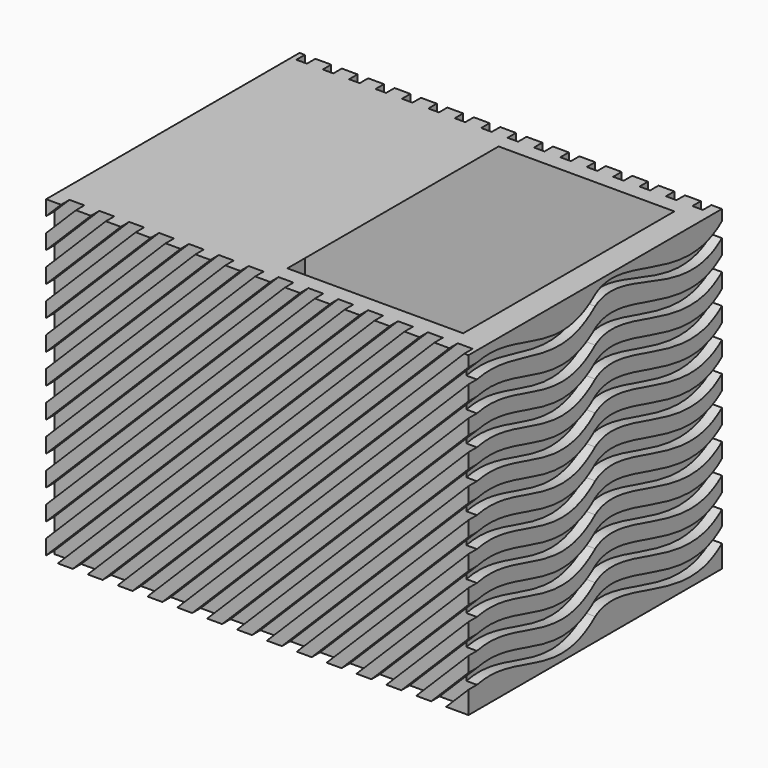
from build123d import *

# Parameters (mm, degrees)
F1_DEPTH  = 38.1
F2_W      = 101.6
F2_H      = 76.2
F3_DEPTH  = 6.35
F4_W      = 101.6
F4_H      = 76.2
F5_DEPTH  = 6.35
F7_DEPTH  = 2.54
F8_W      = 2.54
F8_H      = 76.2
F9_DEPTH  = 2.54
F11_DEPTH = 2.54
F12_R     = 4.2754048123
F12_R_2   = 7.1256756508
F12_R_3   = 9.0660362847
F12_R_4   = 2.2312930477
F12_R_5   = 2.9728366709
F12_R_6   = 6.2839365403
F12_R_7   = 6.2206951397
F12_R_8   = 3.597351496
F12_R_9   = 4.0219635703
F12_R_10  = 2.7169253775
F12_R_11  = 3.0951425565
F12_R_12  = 4.9500838984
F12_R_13  = 3.9589049273
F12_R_14  = 2.0941699832
F12_R_15  = 6.6223443525
F12_R_16  = 3.0864177997
F12_R_17  = 3.0864185683
F12_R_18  = 4.3771885303
F12_R_19  = 2.5753893005
F12_R_20  = 2.8502704005
F12_R_21  = 1.8673161049
F12_R_22  = 4.4099176189
F12_R_23  = 2.3258815663
F12_R_24  = 3.1782278387
F12_R_25  = 2.9280335131
F12_R_26  = 2.3413517262
F12_R_27  = 2.8502716271
F12_R_28  = 4.2606660784
F12_R_29  = 5.087425483
F12_R_30  = 4.2838055857
F12_R_31  = 2.6148717581
F12_R_32  = 2.1389988267
F12_R_33  = 2.4283910389
F13_DEPTH = 2.54


with BuildPart() as f1:
    # F0 (on Front) → F1 (new body, symmetric)
    with BuildSketch(Plane.XZ):
        Polygon((50.8, -38.1), (50.8, 38.1), (44.45, 38.1), (44.45, 12.7), (44.45, -38.1), align=None)
        Polygon((44.45, -38.1), (44.45, 12.7), (-6.35, -16.6293936748), (30.8381810245, -38.1), align=None)
    extrude(amount=F1_DEPTH, both=True)



with BuildPart() as f1b:
    # F0 (on Front) → F1, piece 2 (new body, symmetric)
    with BuildSketch(Plane.XZ):
        Polygon((-44.45, 11.1912198439), (-44.45, 38.1), (-50.8, 38.1), (-50.8, -38.1), (-44.45, -38.1), align=None)
        Polygon((-44.45, 11.1912198439), (2.1573744, 38.1), (-44.45, 38.1), align=None)
    extrude(amount=F1_DEPTH, both=True)


with BuildPart() as f1_1:
    add(f1.part)

    add(f1b.part)  # F3 merges F1b
    # F2 (on face) → F3 (join)
    with BuildSketch(Plane(origin=(0, 38.1, 0), x_dir=(-1, 0, 0), z_dir=(0, 1, 0))):
        Rectangle(F2_W, F2_H)
    extrude(amount=-F3_DEPTH)

    # F4 (on face) → F5 (join)
    with BuildSketch(Plane.XZ.offset(38.1)):
        Rectangle(F4_W, F4_H)
    extrude(amount=-F5_DEPTH)

    # F6 (on face) → F7 (cut)
    with BuildSketch(Plane.XZ.offset(38.1)):
        Polygon((-47.2078975516, 38.1), (-50.8, 34.5078975516), (-50.8, 30.9157951031), (-43.6157951031, 38.1), align=None)
        Polygon((-40.0236926547, 38.1), (-50.8, 27.3236926547), (-50.8, 23.7315902063), (-36.4315902063, 38.1), align=None)
        Polygon((-32.8394877579, 38.1), (-50.8, 20.1394877579), (-50.8, 16.5473853094), (-29.2473853094, 38.1), align=None)
        Polygon((-25.655282861, 38.1), (-50.8, 12.955282861), (-50.8, 9.3631804126), (-22.0631804126, 38.1), align=None)
        Polygon((-18.4710779642, 38.1), (-50.8, 5.7710779642), (-50.8, 2.1789755157), (-14.8789755157, 38.1), align=None)
        Polygon((-11.2868730673, 38.1), (-50.8, -1.4131269327), (-50.8, -5.0052293811), (-7.6947706189, 38.1), align=None)
        Polygon((-0.510565722, 38.1), (-4.1026681704, 38.1), (-50.8, -8.5973318296), (-50.8, -12.189434278), align=None)
        Polygon((3.0815367264, 38.1), (-50.8, -15.7815367264), (-50.8, -19.3736391748), (6.6736391748, 38.1), align=None)
        Polygon((10.2657416233, 38.1), (-50.8, -22.9657416233), (-50.8, -26.5578440717), (13.8578440717, 38.1), align=None)
        Polygon((17.4499465201, 38.1), (-50.8, -30.1499465201), (-50.8, -33.7420489686), (21.0420489686, 38.1), align=None)
        Polygon((24.634151417, 38.1), (-50.8, -37.334151417), (-50.8, -38.1), (-47.9737461346, -38.1), (28.2262538654, 38.1), align=None)
        Polygon((31.8183563138, 38.1), (-44.3816436862, -38.1), (-40.7895412377, -38.1), (35.4104587623, 38.1), align=None)
        Polygon((39.0025612107, 38.1), (-37.1974387893, -38.1), (-33.6053363409, -38.1), (42.5946636591, 38.1), align=None)
        Polygon((46.1867661075, 38.1), (-30.0132338925, -38.1), (-26.421131444, -38.1), (49.778868556, 38.1), align=None)
        Polygon((50.8, 31.9369265472), (50.8, 35.5290289956), (-22.8290289956, -38.1), (-19.2369265472, -38.1), align=None)
        Polygon((50.8, 24.7527216503), (50.8, 28.3448240987), (-15.6448240987, -38.1), (-12.0527216503, -38.1), align=None)
        Polygon((50.8, 17.5685167535), (50.8, 21.1606192019), (-8.4606192019, -38.1), (-4.8685167535, -38.1), align=None)
        Polygon((50.8, 10.3843118566), (50.8, 13.976414305), (-1.276414305, -38.1), (2.3156881434, -38.1), align=None)
        Polygon((50.8, 3.2001069597), (50.8, 6.7922094082), (5.9077905918, -38.1), (9.4998930403, -38.1), align=None)
        Polygon((50.8, -3.9840979371), (50.8, -0.3919954887), (13.0919954887, -38.1), (16.6840979371, -38.1), align=None)
        Polygon((50.8, -11.168302834), (50.8, -7.5762003855), (20.2762003855, -38.1), (23.868302834, -38.1), align=None)
        Polygon((50.8, -18.3525077308), (50.8, -14.7604052824), (27.4604052824, -38.1), (31.0525077308, -38.1), align=None)
        Polygon((50.8, -21.9446101792), (34.6446101792, -38.1), (38.2367126277, -38.1), (50.8, -25.5367126277), align=None)
        Polygon((50.8, -29.1288150761), (41.8288150761, -38.1), (45.4209175245, -38.1), (50.8, -32.7209175245), align=None)
    extrude(amount=-F7_DEPTH, mode=Mode.SUBTRACT)

    # F8 (on face) → F9 (cut)
    with BuildSketch(Plane(origin=(0, 38.1, 0), x_dir=(-1, 0, 0), z_dir=(0, 1, 0))):
        with Locations((-46.99, 0)):
            Rectangle(F8_W, F8_H)
        with Locations((-40.64, 0)):
            Rectangle(F8_W, F8_H)
        with Locations((-34.29, 0)):
            Rectangle(F8_W, F8_H)
        with Locations((-27.94, 0)):
            Rectangle(F8_W, F8_H)
        with Locations((-21.59, 0)):
            Rectangle(F8_W, F8_H)
        with Locations((-15.24, 0)):
            Rectangle(F8_W, F8_H)
        with Locations((-8.89, 0)):
            Rectangle(F8_W, F8_H)
        with Locations((-2.54, 0)):
            Rectangle(F8_W, F8_H)
        with Locations((3.81, 0)):
            Rectangle(F8_W, F8_H)
        with Locations((10.16, 0)):
            Rectangle(F8_W, F8_H)
        with Locations((16.51, 0)):
            Rectangle(F8_W, F8_H)
        with Locations((22.86, 0)):
            Rectangle(F8_W, F8_H)
        with Locations((29.21, 0)):
            Rectangle(F8_W, F8_H)
        with Locations((35.56, 0)):
            Rectangle(F8_W, F8_H)
        with Locations((41.91, 0)):
            Rectangle(F8_W, F8_H)
        with Locations((48.26, 0)):
            Rectangle(F8_W, F8_H)
    extrude(amount=-F9_DEPTH, mode=Mode.SUBTRACT)

    # F10 (on face) → F11 (cut)
    with BuildSketch(Plane.YZ.offset(50.8)):
        with BuildLine():
            add(Edge.make_bspline(
                [(-35.56, 35.5290289956), (-23.1824629002, 38.1), (-11.570743456, 26.0235024488), (0, 35.5290289956)],
                knots=[0, 0, 0, 0, 35.56, 35.56, 35.56, 35.56], degree=3))
            Line((-35.56, 35.5290289956), (-35.56, 31.9369265472))
            add(Edge.make_bspline(
                [(-35.56, 31.9369265472), (-23.1824629024, 34.5078975568), (-11.5707446503, 23.483503931), (0, 32.9890289956)],
                knots=[0, 0, 0, 0, 35.5755607062, 35.5755607062, 35.5755607062, 35.5755607062], degree=3))
            add(Edge.make_bspline(
                [(0, 32.9890289956), (8.7215826467, 38.7027483979), (26.5292555222, 22.4314012931), (38.1, 31.9369265472)],
                knots=[0, 0, 0, 0, 38.1145237352, 38.1145237352, 38.1145237352, 38.1145237352], degree=3))
            Line((38.1, 31.9369265472), (38.1, 35.5290289956))
            add(Edge.make_bspline(
                [(0, 35.5290289956), (8.721582642, 41.2427484073), (26.5292555417, 26.0235037142), (38.1, 35.5290289956)],
                knots=[0, 0, 0, 0, 38.1, 38.1, 38.1, 38.1], degree=3))
        make_face()
        with BuildLine():
            add(Edge.make_bspline(
                [(-35.56, 28.3448240987), (-23.1824629002, 30.9157951031), (-11.570743456, 18.8392975519), (0, 28.3448240987)],
                knots=[0, 0, 0, 0, 35.56, 35.56, 35.56, 35.56], degree=3))
            Line((-35.56, 28.3448240987), (-35.56, 24.7527216503))
            add(Edge.make_bspline(
                [(-35.56, 24.7527216503), (-23.1824629002, 27.3236926547), (-11.570743456, 15.2471951035), (0, 24.7527216503)],
                knots=[0, 0, 0, 0, 35.56, 35.56, 35.56, 35.56], degree=3))
            add(Edge.make_bspline(
                [(0, 24.7527216503), (8.721582642, 30.466441062), (26.5292555417, 15.247196369), (38.1, 24.7527216503)],
                knots=[0, 0, 0, 0, 38.1, 38.1, 38.1, 38.1], degree=3))
            Line((38.1, 24.7527216503), (38.1, 28.3448240987))
            add(Edge.make_bspline(
                [(0, 28.3448240987), (8.721582642, 34.0585435104), (26.5292555417, 18.8392988174), (38.1, 28.3448240987)],
                knots=[0, 0, 0, 0, 38.1, 38.1, 38.1, 38.1], degree=3))
        make_face()
        with BuildLine():
            add(Edge.make_bspline(
                [(-35.56, 21.1606192019), (-23.1824629002, 23.7315902063), (-11.570743456, 11.6550926551), (0, 21.1606192019)],
                knots=[0, 0, 0, 0, 35.56, 35.56, 35.56, 35.56], degree=3))
            Line((-35.56, 21.1606192019), (-35.56, 17.5685167535))
            add(Edge.make_bspline(
                [(-35.56, 17.5685167535), (-23.1824629002, 20.1394877579), (-11.570743456, 8.0629902067), (0, 17.5685167535)],
                knots=[0, 0, 0, 0, 35.56, 35.56, 35.56, 35.56], degree=3))
            add(Edge.make_bspline(
                [(0, 17.5685167535), (8.721582642, 23.2822361651), (26.5292555417, 8.0629914721), (38.1, 17.5685167535)],
                knots=[0, 0, 0, 0, 38.1, 38.1, 38.1, 38.1], degree=3))
            Line((38.1, 17.5685167535), (38.1, 21.1606192019))
            add(Edge.make_bspline(
                [(0, 21.1606192019), (8.721582642, 26.8743386136), (26.5292555417, 11.6550939205), (38.1, 21.1606192019)],
                knots=[0, 0, 0, 0, 38.1, 38.1, 38.1, 38.1], degree=3))
        make_face()
        with BuildLine():
            add(Edge.make_bspline(
                [(-35.56, 13.976414305), (-23.1824629002, 16.5473853094), (-11.570743456, 4.4708877582), (0, 13.976414305)],
                knots=[0, 0, 0, 0, 35.56, 35.56, 35.56, 35.56], degree=3))
            Line((-35.56, 13.976414305), (-35.56, 10.3843118566))
            add(Edge.make_bspline(
                [(-35.56, 10.3843118566), (-23.1824629002, 12.955282861), (-11.570743456, 0.8787853098), (0, 10.3843118566)],
                knots=[0, 0, 0, 0, 35.56, 35.56, 35.56, 35.56], degree=3))
            add(Edge.make_bspline(
                [(0, 10.3843118566), (8.721582642, 16.0980312683), (26.5292555417, 0.8787865753), (38.1, 10.3843118566)],
                knots=[0, 0, 0, 0, 38.1, 38.1, 38.1, 38.1], degree=3))
            Line((38.1, 10.3843118566), (38.1, 13.976414305))
            add(Edge.make_bspline(
                [(0, 13.976414305), (8.721582642, 19.6901337167), (26.5292555417, 4.4708890237), (38.1, 13.976414305)],
                knots=[0, 0, 0, 0, 38.1, 38.1, 38.1, 38.1], degree=3))
        make_face()
        with BuildLine():
            add(Edge.make_bspline(
                [(-35.56, 6.7922094082), (-23.1824629002, 9.3631804126), (-11.570743456, -2.7133171386), (0, 6.7922094082)],
                knots=[0, 0, 0, 0, 35.56, 35.56, 35.56, 35.56], degree=3))
            Line((-35.56, 6.7922094082), (-35.56, 3.2001069597))
            add(Edge.make_bspline(
                [(-35.56, 3.2001069597), (-23.1824629002, 5.7710779642), (-11.570743456, -6.3054195871), (0, 3.2001069597)],
                knots=[0, 0, 0, 0, 35.56, 35.56, 35.56, 35.56], degree=3))
            add(Edge.make_bspline(
                [(0, 3.2001069597), (8.721582642, 8.9138263714), (26.5292555417, -6.3054183216), (38.1, 3.2001069597)],
                knots=[0, 0, 0, 0, 38.1, 38.1, 38.1, 38.1], degree=3))
            Line((38.1, 3.2001069597), (38.1, 6.7922094082))
            add(Edge.make_bspline(
                [(0, 6.7922094082), (8.721582642, 12.5059288199), (26.5292555417, -2.7133158732), (38.1, 6.7922094082)],
                knots=[0, 0, 0, 0, 38.1, 38.1, 38.1, 38.1], degree=3))
        make_face()
        with BuildLine():
            add(Edge.make_bspline(
                [(-35.56, -0.3919954887), (-23.1824629002, 2.1789755157), (-11.570743456, -9.8975220355), (0, -0.3919954887)],
                knots=[0, 0, 0, 0, 35.56, 35.56, 35.56, 35.56], degree=3))
            Line((-35.56, -0.3919954887), (-35.56, -3.9840979371))
            add(Edge.make_bspline(
                [(-35.56, -3.9840979371), (-23.1824629002, -1.4131269327), (-11.570743456, -13.4896244839), (0, -3.9840979371)],
                knots=[0, 0, 0, 0, 35.56, 35.56, 35.56, 35.56], degree=3))
            add(Edge.make_bspline(
                [(0, -3.9840979371), (8.721582642, 1.7296214746), (26.5292555417, -13.4896232185), (38.1, -3.9840979371)],
                knots=[0, 0, 0, 0, 38.1, 38.1, 38.1, 38.1], degree=3))
            Line((38.1, -3.9840979371), (38.1, -0.3919954887))
            add(Edge.make_bspline(
                [(0, -0.3919954887), (8.721582642, 5.321723923), (26.5292555417, -9.89752077), (38.1, -0.3919954887)],
                knots=[0, 0, 0, 0, 38.1, 38.1, 38.1, 38.1], degree=3))
        make_face()
        with BuildLine():
            add(Edge.make_bspline(
                [(-35.56, -7.5762003855), (-23.1824629002, -5.0052293811), (-11.570743456, -17.0817269323), (0, -7.5762003855)],
                knots=[0, 0, 0, 0, 35.56, 35.56, 35.56, 35.56], degree=3))
            Line((-35.56, -7.5762003855), (-35.56, -11.168302834))
            add(Edge.make_bspline(
                [(-35.56, -11.168302834), (-23.1824629002, -8.5973318296), (-11.570743456, -20.6738293808), (0, -11.168302834)],
                knots=[0, 0, 0, 0, 35.56, 35.56, 35.56, 35.56], degree=3))
            add(Edge.make_bspline(
                [(0, -11.168302834), (8.721582642, -5.4545834223), (26.5292555417, -20.6738281153), (38.1, -11.168302834)],
                knots=[0, 0, 0, 0, 38.1, 38.1, 38.1, 38.1], degree=3))
            Line((38.1, -11.168302834), (38.1, -7.5762003855))
            add(Edge.make_bspline(
                [(0, -7.5762003855), (8.721582642, -1.8624809739), (26.5292555417, -17.0817256669), (38.1, -7.5762003855)],
                knots=[0, 0, 0, 0, 38.1, 38.1, 38.1, 38.1], degree=3))
        make_face()
        with BuildLine():
            add(Edge.make_bspline(
                [(-35.56, -14.7604052824), (-23.1824629002, -12.189434278), (-11.570743456, -24.2659318292), (0, -14.7604052824)],
                knots=[0, 0, 0, 0, 35.56, 35.56, 35.56, 35.56], degree=3))
            Line((-35.56, -14.7604052824), (-35.56, -18.3525077308))
            add(Edge.make_bspline(
                [(-35.56, -18.3525077308), (-23.1824629002, -15.7815367264), (-11.570743456, -27.8580342776), (0, -18.3525077308)],
                knots=[0, 0, 0, 0, 35.56, 35.56, 35.56, 35.56], degree=3))
            add(Edge.make_bspline(
                [(0, -18.3525077308), (8.721582642, -12.6387883191), (26.5292555417, -27.8580330122), (38.1, -18.3525077308)],
                knots=[0, 0, 0, 0, 38.1, 38.1, 38.1, 38.1], degree=3))
            Line((38.1, -18.3525077308), (38.1, -14.7604052824))
            add(Edge.make_bspline(
                [(0, -14.7604052824), (8.721582642, -9.0466858707), (26.5292555417, -24.2659305637), (38.1, -14.7604052824)],
                knots=[0, 0, 0, 0, 38.1, 38.1, 38.1, 38.1], degree=3))
        make_face()
        with BuildLine():
            add(Edge.make_bspline(
                [(-35.56, -21.9446101792), (-23.1824629002, -19.3736391748), (-11.570743456, -31.4501367261), (0, -21.9446101792)],
                knots=[0, 0, 0, 0, 35.56, 35.56, 35.56, 35.56], degree=3))
            Line((-35.56, -21.9446101792), (-35.56, -25.5367126277))
            add(Edge.make_bspline(
                [(-35.56, -25.5367126277), (-23.1824629002, -22.9657416233), (-11.570743456, -35.0422391745), (0, -25.5367126277)],
                knots=[0, 0, 0, 0, 35.56, 35.56, 35.56, 35.56], degree=3))
            add(Edge.make_bspline(
                [(0, -25.5367126277), (8.721582642, -19.822993216), (26.5292555417, -35.042237909), (38.1, -25.5367126277)],
                knots=[0, 0, 0, 0, 38.1, 38.1, 38.1, 38.1], degree=3))
            Line((38.1, -25.5367126277), (38.1, -21.9446101792))
            add(Edge.make_bspline(
                [(0, -21.9446101792), (8.721582642, -16.2308907676), (26.5292555417, -31.4501354606), (38.1, -21.9446101792)],
                knots=[0, 0, 0, 0, 38.1, 38.1, 38.1, 38.1], degree=3))
        make_face()
        with BuildLine():
            add(Edge.make_bspline(
                [(-35.56, -29.1288150761), (-23.1824629002, -26.5578440717), (-11.570743456, -38.6343416229), (0, -29.1288150761)],
                knots=[0, 0, 0, 0, 35.56, 35.56, 35.56, 35.56], degree=3))
            Line((-35.56, -29.1288150761), (-35.56, -32.7209175245))
            add(Edge.make_bspline(
                [(-35.56, -32.7209175245), (-23.1824629002, -30.1499465201), (-11.570743456, -42.2264440713), (0, -32.7209175245)],
                knots=[0, 0, 0, 0, 35.56, 35.56, 35.56, 35.56], degree=3))
            add(Edge.make_bspline(
                [(0, -32.7209175245), (8.721582642, -27.0071981128), (26.5292555417, -42.2264428059), (38.1, -32.7209175245)],
                knots=[0, 0, 0, 0, 38.1, 38.1, 38.1, 38.1], degree=3))
            Line((38.1, -32.7209175245), (38.1, -29.1288150761))
            add(Edge.make_bspline(
                [(0, -29.1288150761), (8.721582642, -23.4150956644), (26.5292555417, -38.6343403574), (38.1, -29.1288150761)],
                knots=[0, 0, 0, 0, 38.1, 38.1, 38.1, 38.1], degree=3))
        make_face()
    extrude(amount=-F11_DEPTH, mode=Mode.SUBTRACT)

    # F12 (on face) → F13 (cut)
    with BuildSketch(Plane(origin=(-50.8, 0, 0), x_dir=(0, -1, 0), z_dir=(-1, 0, 0))):
        with Locations((-28.2556209713, 28.7941098213)):
            Circle(F12_R)
        with Locations((-14.3261030316, 27.6373885572)):
            Circle(F12_R_2)
        with Locations((-22.2226772457, 5.8689187281)):
            Circle(F12_R_3)
        with Locations((-4.5260386541, 8.013965562)):
            Circle(F12_R_4)
        with Locations((-2.7831881307, 0)):
            Circle(F12_R_5)
        with Locations((-15.5194047838, -15.7156158239)):
            Circle(F12_R_6)
        with Locations((6.3332621939, -12.3639805242)):
            Circle(F12_R_7)
        with Locations((-1.844730461, -28.5858977586)):
            Circle(F12_R_8)
        with Locations((4.5904102735, 24.9062106013)):
            Circle(F12_R_9)
        with Locations((20.1818421483, 30.0406180322)):
            Circle(F12_R_10)
        with Locations((18.2650871575, 15.9238260239)):
            Circle(F12_R_11)
        with Locations((15.1815796271, 0)):
            Circle(F12_R_12)
        with Locations((8.880504407, 10.2930776775)):
            Circle(F12_R_13)
        with Locations((15.1815796271, -10.6211304665)):
            Circle(F12_R_14)
        with Locations((20.2760659158, -23.8936077803)):
            Circle(F12_R_15)
        with Locations((10.757420212, -27.1111801267)):
            Circle(F12_R_16)
        with Locations((-5.7326285169, -9.0123442933)):
            Circle(F12_R_17)
        with Locations((-29.9984719604, -28.3177662641)):
            Circle(F12_R_18)
        with Locations((-10.3914020583, -31.1666596681)):
            Circle(F12_R_19)
        with Locations((-17.7985168993, -29.658421874)):
            Circle(F12_R_20)
        with Locations((-7.4754785746, -23.0892132968)):
            Circle(F12_R_21)
        with Locations((-29.3281450868, -12.6321120188)):
            Circle(F12_R_22)
        with Locations((-29.7303404659, 18.8732668757)):
            Circle(F12_R_23)
        with Locations((-10.1567870006, 16.5941528976)):
            Circle(F12_R_24)
        with Locations((3.7860171869, 16.460089013)):
            Circle(F12_R_25)
        with Locations((7.8079807572, 33.3523340523)):
            Circle(F12_R_26)
        with Locations((13.8409249485, 23.565556854)):
            Circle(F12_R_27)
        with Locations((25.5046170205, 21.018313244)):
            Circle(F12_R_28)
        with Locations((26.5771411359, 7.4777039699)):
            Circle(F12_R_29)
        with Locations((27.6496652514, -9.2804757878)):
            Circle(F12_R_30)
        with Locations((-14.2177585512, -4.2308764532)):
            Circle(F12_R_31)
        with Locations((9.2186816037, -33.7257161736)):
            Circle(F12_R_32)
        with Locations((21.0166200995, -34.6823036671)):
            Circle(F12_R_33)
    extrude(amount=-F13_DEPTH, mode=Mode.SUBTRACT)


solid = f1_1.part
